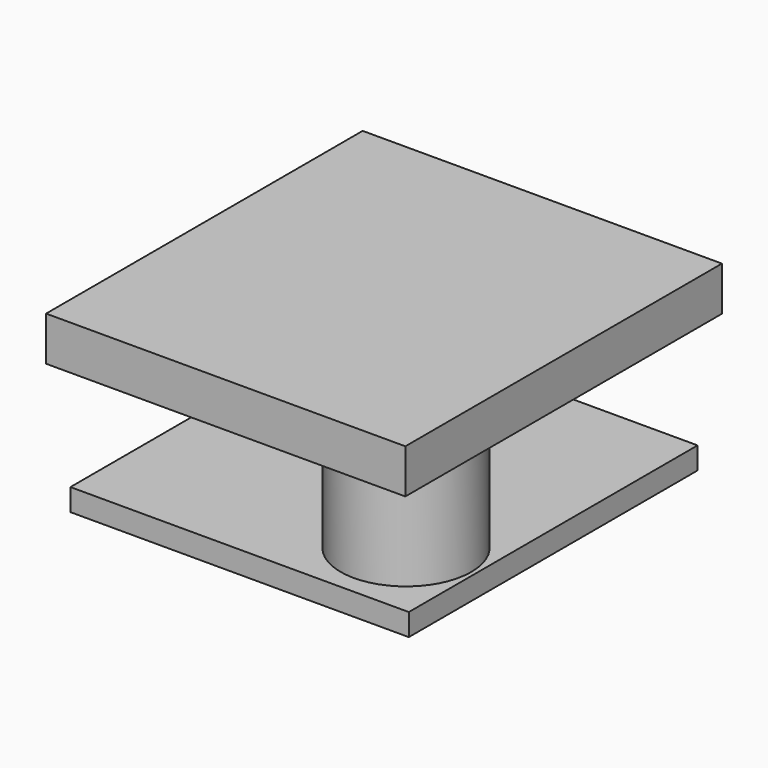
from build123d import *

# Parameters (mm, degrees)
F0_W     = 81.327438
F0_H     = 89.578062
F1_DEPTH = 10
F2_R     = 15.381111
F2_R_2   = 14.786786
F3_DEPTH = 25.4
F4_W     = 76.597116
F4_H     = 81.712402
F5_DEPTH = 5


with BuildPart() as f1:
    # F0 (on Top) → F1 (new body)
    with BuildSketch(Plane.XY):
        Rectangle(F0_W, F0_H)
    extrude(amount=F1_DEPTH)

    # F2 (on face) → F3 (join)
    with BuildSketch(Plane(origin=(0, 0, 0), x_dir=(1, 0, 0), z_dir=(0, 0, -1))):
        with Locations((-20.520471, -20.540299)):
            Circle(F2_R)
        with Locations((22.55322, 21.967739)):
            Circle(F2_R_2)
        with Locations((22.55322, 21.967739)):
            Circle(F2_R_2)
    extrude(amount=F3_DEPTH)

    # F4 (on face) → F5 (join)
    with BuildSketch(Plane(origin=(0, 0, -25.4), x_dir=(1, 0, 0), z_dir=(0, 0, -1))):
        Rectangle(F4_W, F4_H)
    extrude(amount=F5_DEPTH)


solid = f1.part
